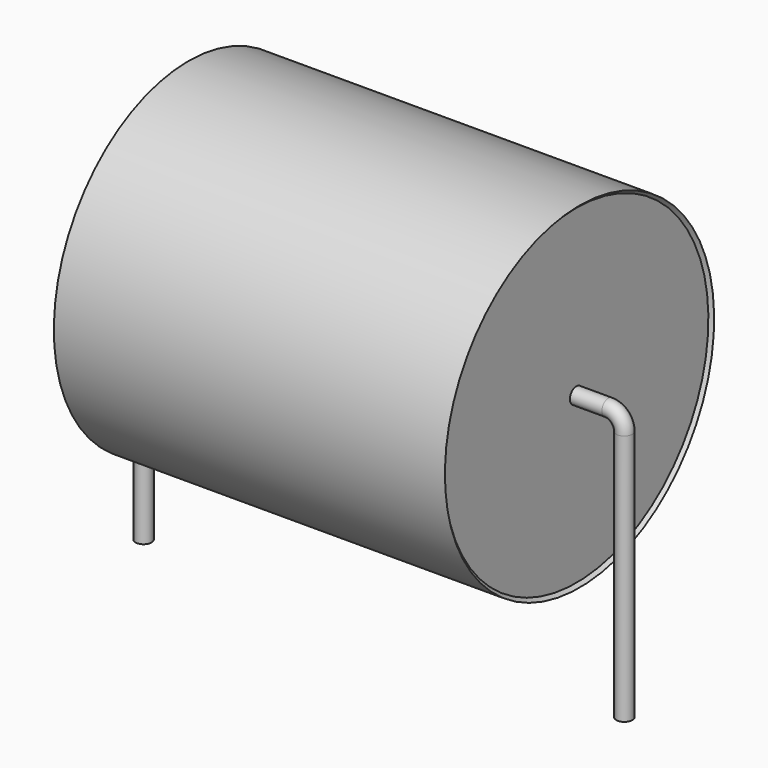
from build123d import *

# Parameters (mm, degrees)
SKETCH_R = 0.25


with BuildPart() as sweep_body:
    # Sweep: sweep along a path in Sketch001
    with BuildLine(Plane.XZ) as sweep_path:
        Line((0, -3), (0, 4.85))
        ThreePointArc((0, 4.85), (0.146443, 5.20355), (0.499991, 5.35))
        Line((0.499991, 5.35), (14.5, 5.35))
        ThreePointArc((14.5, 5.35), (14.853553, 5.203553), (15, 4.85))
        Line((15, 4.85), (15, -3))
    # Sketch → Sweep (sweep)
    with BuildSketch(Plane.XY.offset(-2)):
        Circle(SKETCH_R)
    sweep(path=sweep_path.line)


with BuildPart() as revolution:
    # Sketch002 → Revolution (revolve)
    with BuildSketch(Plane.XZ):
        Polygon((1.4, 10.6), (13.6, 10.6), (13.5, 10.5), (13.5, 5.35), (1.5, 5.35), (1.5, 10.5), align=None)
    revolve(axis=Axis((7.611803, 0, 5.35), (1, 0, 0)))


solid = Compound([sweep_body.part, revolution.part])
